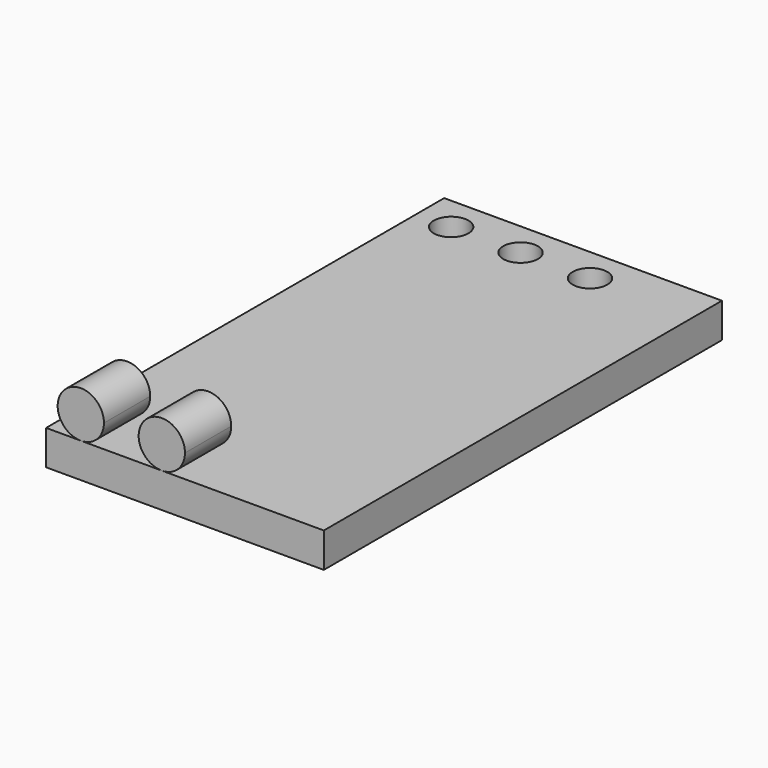
from build123d import *

# Parameters (mm, degrees)
F0_W     = 12
F0_H     = 21.5
F1_DEPTH = 1.5
F3_R     = 1
F4_DEPTH = 2.5
F5_R     = 0.75
F6_DEPTH = 1.501


with BuildPart() as f1:
    # F0 (on Top) → F1 (new body)
    with BuildSketch(Plane.XY):
        Rectangle(F0_W, F0_H)
    extrude(amount=F1_DEPTH)

    # F3 (on offset) → F4 (join, through all)
    with BuildSketch(Plane.XZ.offset(8.25)):
        with Locations((-4.5, 2.5)):
            Circle(F3_R)
        with Locations((-1, 2.5)):
            Circle(F3_R)
    extrude(amount=F4_DEPTH)

    # F5 (on face) → F6 (cut, through all)
    with BuildSketch(Plane.XY.offset(1.5)):
        with Locations((-4.5, 9.25)):
            Circle(F5_R)
        with Locations((-1.5, 9.25)):
            Circle(F5_R)
        with Locations((1.5, 9.25)):
            Circle(F5_R)
    extrude(amount=-F6_DEPTH, mode=Mode.SUBTRACT)


solid = f1.part
